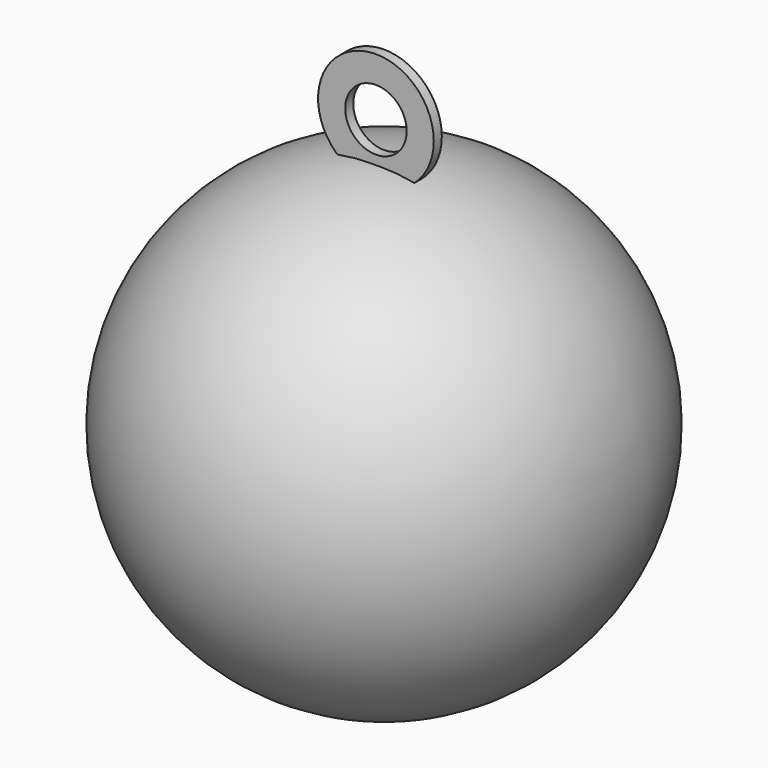
from build123d import *

# Parameters (mm, degrees)
F2_R     = 9.475925
F2_R_2   = 5.033387
F3_DEPTH = 1.651


with BuildPart() as f1:
    # F0 (on Front) → F1 (revolve)
    with BuildSketch(Plane.XZ):
        with BuildLine():
            Line((0, 38.1), (0, -38.1))
            ThreePointArc((0, -38.1), (38.1, 0), (0, 38.1))
        make_face()
    revolve(axis=Axis((0, 0, -7.036711), (0, 0, -1)))


with BuildPart() as f3:
    # F2 (on Front) → F3 (new body)
    with BuildSketch(Plane.XZ):
        with Locations((0, 44.56583)):
            Circle(F2_R)
        with Locations((0, 44.56583)):
            Circle(F2_R_2, mode=Mode.SUBTRACT)
    extrude(amount=F3_DEPTH)


solid = Compound([f1.part, f3.part])
